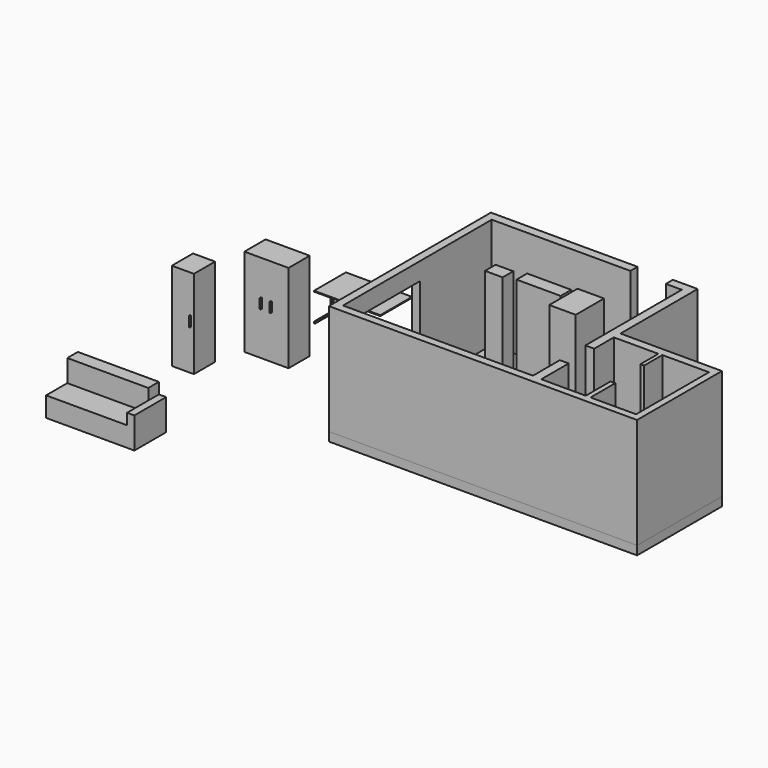
from build123d import *

# Parameters (mm, degrees)
F2_DEPTH  = 2500
F3_W      = 1900
F3_H      = 1200
F4_DEPTH  = 180.582437
F1_W      = 600
F1_H      = 800
F5_DEPTH  = 2000
F7_DEPTH  = 400
F8_W      = 400
F8_H      = 300
F9_DEPTH  = 2000
F10_W     = 1000
F10_H     = 300
F11_DEPTH = 2000
F13_DEPTH = 200
F14_W     = 1500
F14_H     = 900
F15_DEPTH = 20
F17_DEPTH = 25
F19_W     = 500
F19_H     = 600
F20_DEPTH = 2000
F18_W     = 1000
F18_H     = 600
F21_DEPTH = 2000
F22_W     = 23.042202
F22_H     = 220.27713
F23_DEPTH = 37
F24_W     = 22.167683
F24_H     = 232.065857
F25_DEPTH = 30
F26_W     = 2000
F26_H     = 900
F27_DEPTH = 450
F28_W     = 1834.685802
F28_H     = 300
F29_DEPTH = 500
F31_DEPTH = 250


with BuildPart() as f2:
    # F0 (on Top) → F2 (new body)
    with BuildSketch(Plane.XY):
        Polygon((-3330.862555, 2081.05841), (-190.891501, 2081.05841), (-190.891501, 2284.041171), (-3511.444992, 2284.041171), (-3511.444992, -2302.99005), (3468.443899, -2302.99005), (3468.443899, 98.506558), (1171.301963, 98.506558), (1171.301963, 2284.041171), (609.108499, 2284.041171), (609.108499, 2085.356188), (971.205715, 2085.356188), (971.205715, -644.9161), (1171.301963, -644.9161), (1171.301963, -89.215858), (2179.478835, -89.215858), (2179.478835, -597.1524), (2264.134895, -597.1524), (2264.134895, -81.519827), (3318.488064, -81.519827), (3318.488064, -2144.049868), (2287.22299, -2144.049868), (2287.22299, -1443.713147), (2179.478835, -1443.713147), (2179.478835, -2144.049868), (1171.301963, -2144.049868), (1171.301963, -1366.753262), (971.205715, -1366.753262), (971.205715, -2128.658092), (-3330.862555, -2128.658092), align=None)
    extrude(amount=F2_DEPTH)

    # F3 (on face) → F4 (cut, through all)
    with BuildSketch(Plane(origin=(-3511.444992, 0, 0), x_dir=(0, -1, 0), z_dir=(-1, 0, 0))):
        with Locations((902.99005, 1500)):
            Rectangle(F3_W, F3_H)
    extrude(amount=-F4_DEPTH, mode=Mode.SUBTRACT)


with BuildPart() as f5:
    # F1 (on Top) → F5 (new body)
    with BuildSketch(Plane.XY):
        with Locations((-794.615459, 1314.753842)):
            Rectangle(F1_W, F1_H)
    extrude(amount=F5_DEPTH)


with BuildPart() as f7:
    # F6 (on Top) → F7 (new body)
    with BuildSketch(Plane.XY):
        with BuildLine():
            ThreePointArc((-456.21717, 268.146557), (-463.5395, 285.824226), (-481.21717, 293.146557))
            Line((-481.21717, 293.146557), (-2431.21717, 293.146557))
            ThreePointArc((-2431.21717, 293.146557), (-2448.894839, 285.824226), (-2456.21717, 268.146557))
            Line((-2456.21717, 268.146557), (-2456.21717, -681.853443))
            ThreePointArc((-2456.21717, -681.853443), (-2448.894839, -699.531113), (-2431.21717, -706.853443))
            Line((-2431.21717, -706.853443), (-481.21717, -706.853443))
            ThreePointArc((-481.21717, -706.853443), (-463.5395, -699.531113), (-456.21717, -681.853443))
            Line((-456.21717, -681.853443), (-456.21717, 268.146557))
        make_face()
    extrude(amount=F7_DEPTH)


with BuildPart() as f9:
    # F8 (on Top) → F9 (new body)
    with BuildSketch(Plane.XY):
        with Locations((-2599.213827, 1376.860023)):
            Rectangle(F8_W, F8_H)
    extrude(amount=F9_DEPTH)


with BuildPart() as f11:
    # F10 (on Top) → F11 (new body)
    with BuildSketch(Plane.XY):
        with Locations((-1654.090345, 1463.02452)):
            Rectangle(F10_W, F10_H)
    extrude(amount=F11_DEPTH)


with BuildPart() as f13:
    # F12 (on face) → F13 (new body)
    with BuildSketch(Plane(origin=(0, 0, 0), x_dir=(1, 0, 0), z_dir=(0, 0, -1))):
        Polygon((3468.443899, 2302.99005), (-3511.444992, 2302.99005), (-3511.444992, -2284.041171), (1171.301963, -2284.041171), (1171.301963, -98.506558), (3468.443899, -98.506558), align=None)
    extrude(amount=F13_DEPTH)


with BuildPart() as f15:
    # F14 (on Top) → F15 (new body)
    with BuildSketch(Plane.XY):
        with Locations((-6310.451746, 2164.307533)):
            Rectangle(F14_W, F14_H)
    extrude(amount=F15_DEPTH)


with BuildPart() as f17:
    # F16 (on face) → F17 (new body)
    with BuildSketch(Plane(origin=(-7060.451746, 0, 0), x_dir=(0, -1, 0), z_dir=(-1, 0, 0))):
        Polygon((-2176.347256, 0), (-2228.834152, 0), (-2228.834152, -593.034565), (-2614.307533, -593.034565), (-2614.307533, -627.51931), (-1714.307533, -627.51931), (-1714.307533, -593.034565), (-2176.347256, -593.034565), align=None)
    extrude(amount=-F17_DEPTH)


with BuildPart() as f20:
    # F19 (on Top) → F20 (new body)
    with BuildSketch(Plane.XY):
        with Locations((-6997.049062, -1778.381586)):
            Rectangle(F19_W, F19_H)
    extrude(amount=F20_DEPTH)

    # F24 (on face) → F25 (join)
    with BuildSketch(Plane.XZ.offset(2078.381586)):
        with Locations((-6822.373151, 1034.685045)):
            Rectangle(F24_W, F24_H)
    extrude(amount=F25_DEPTH)


with BuildPart() as f21:
    # F18 (on Top) → F21 (new body)
    with BuildSketch(Plane.XY):
        with Locations((-6081.376154, -556.219339)):
            Rectangle(F18_W, F18_H)
    extrude(amount=F21_DEPTH)

    # F22 (on face) → F23 (join)
    with BuildSketch(Plane.XZ.offset(856.219339)):
        with Locations((-6194.579363, 1100.621432)):
            Rectangle(F22_W, F22_H)
        with Locations((-5968.172945, 1100.621432)):
            Rectangle(F22_W, F22_H)
    extrude(amount=F23_DEPTH)


with BuildPart() as f27:
    # F26 (on Top) → F27 (new body)
    with BuildSketch(Plane.XY):
        with Locations((-6741.323471, -4569.742512)):
            Rectangle(F26_W, F26_H)
    extrude(amount=F27_DEPTH)

    # F28 (on face) → F29 (join)
    with BuildSketch(Plane.XY.offset(450)):
        with Locations((-6823.98057, -4269.742512)):
            Rectangle(F28_W, F28_H)
    extrude(amount=F29_DEPTH)

    # F30 (on face) → F31 (join)
    with BuildSketch(Plane.XY.offset(450)):
        Polygon((-5741.323471, -4119.742512), (-5906.637669, -4119.742512), (-5906.637669, -4419.742512), (-5906.637669, -5019.742512), (-5741.323471, -5019.742512), align=None)
    extrude(amount=F31_DEPTH)


solid = Compound([f2.part, f5.part, f7.part, f9.part, f11.part, f13.part, f15.part, f17.part, f20.part, f21.part, f27.part])
